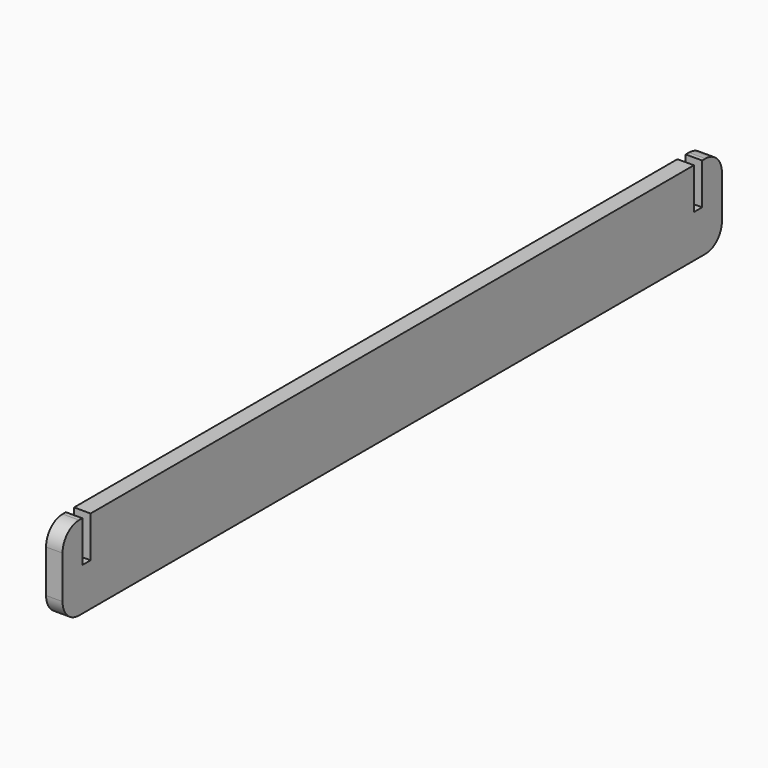
from build123d import *

# Parameters (mm, degrees)
F1_DEPTH = 5.08


with BuildPart() as f1:
    # F0 (on Right) → F1 (new body)
    with BuildSketch(Plane.YZ):
        with BuildLine():
            ThreePointArc((0, 6.35), (1.859872, 1.859872), (6.35, 0))
            Line((6.35, 0), (247.65, 0))
            ThreePointArc((247.65, 0), (252.140128, 1.859872), (254, 6.35))
            Line((254, 6.35), (254, 19.518634))
            ThreePointArc((254, 19.518634), (252.140128, 24.008762), (247.65, 25.868634))
            Line((247.65, 25.868634), (246.38, 25.868634))
            Line((246.38, 25.868634), (246.38, 13.168634))
            Line((246.38, 13.168634), (243.205, 13.168634))
            Line((243.205, 13.168634), (243.205, 25.868634))
            Line((243.205, 25.868634), (10.795, 25.868634))
            Line((10.795, 25.868634), (10.795, 13.168634))
            Line((10.795, 13.168634), (7.62, 13.168634))
            Line((7.62, 13.168634), (7.62, 25.868634))
            Line((7.62, 25.868634), (6.35, 25.868634))
            ThreePointArc((6.35, 25.868634), (1.859872, 24.008762), (0, 19.518634))
            Line((0, 19.518634), (0, 6.35))
        make_face()
    extrude(amount=F1_DEPTH)


solid = f1.part
